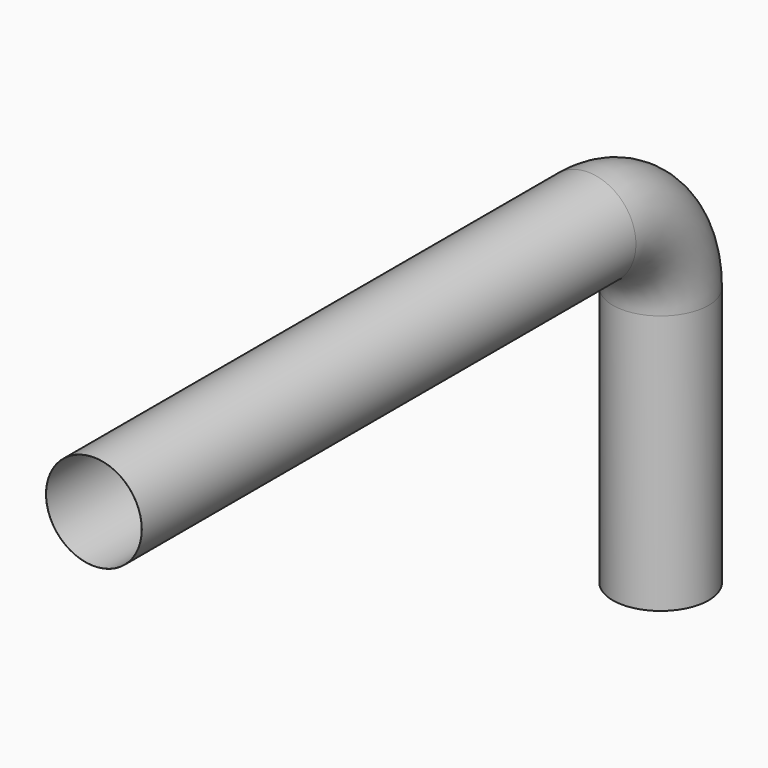
from build123d import *

# Parameters (mm, degrees)
F0_R   = 482.6
F0_R_2 = 481.8888


with BuildPart() as f2:
    # F2: sweep along a path in F1
    with BuildLine(Plane.YZ) as f2_path:
        Line((0, 0), (6223, 0))
        ThreePointArc((6223, 0), (6869.578440717, -267.821559283), (7137.4, -914.4))
        Line((7137.4, -914.4), (7137.4, -3530.6))
    # F0 (on Front) → F2 (sweep)
    with BuildSketch(Plane.XZ):
        Circle(F0_R)
        Circle(F0_R_2, mode=Mode.SUBTRACT)
    sweep(path=f2_path.line)


solid = f2.part
